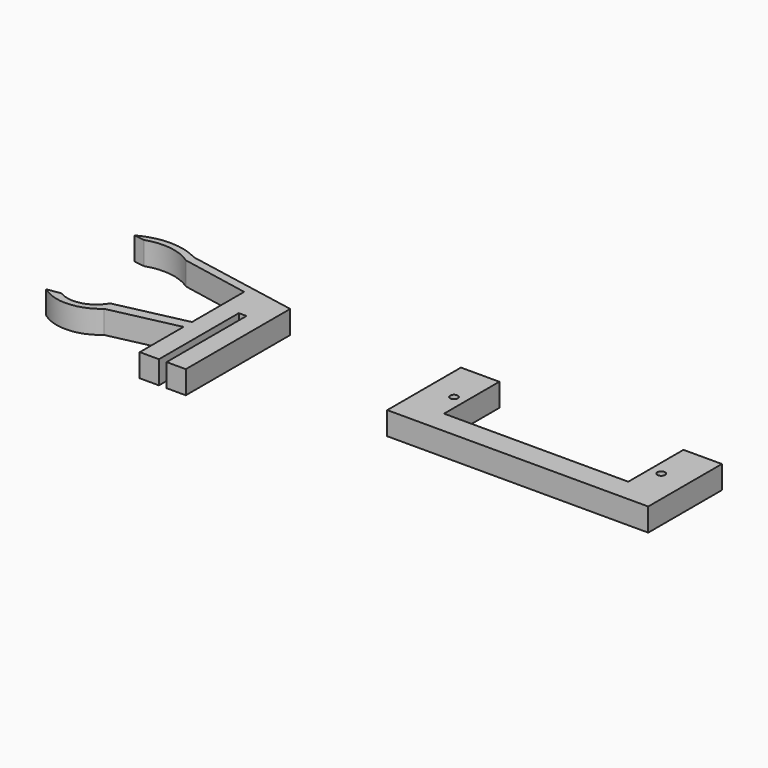
from build123d import *

# Parameters (mm, degrees)
F0_W     = 5
F0_H     = 3
F0_H_2   = 9
F0_R     = 0.5
F0_W_2   = 24
F1_DEPTH = 3
F2_W     = 0.7
F2_H     = 3
F3_DEPTH = 3


with BuildPart() as f1:
    # F0 (on Top) → F1 (new body)
    with BuildSketch(Plane.XY):
        with Locations((17.012177, -21.674683)):
            Rectangle(F0_W, F0_H)
        with Locations((17.012177, -15.674683)):
            Rectangle(F0_W, F0_H_2)
        with Locations((18.012177, -16.674683)):
            Circle(F0_R, mode=Mode.SUBTRACT)
        with Locations((46.012177, -21.674683)):
            Rectangle(F0_W, F0_H)
        Polygon((43.512177, -11.184), (43.512177, -20.174683), (48.512177, -20.174683), (48.512177, -11.174683), align=None)
        with Locations((45.012177, -16.681215)):
            Circle(F0_R, mode=Mode.SUBTRACT)
        with Locations((31.512177, -21.674683)):
            Rectangle(F0_W_2, F0_H)
    extrude(amount=F1_DEPTH)


with BuildPart() as f3:
    # F2 (on Top) → F3 (new body)
    with BuildSketch(Plane.XY):
        with Locations((-12.772288, -26.402034)):
            Rectangle(F2_W, F2_H)
        with Locations((-7.472288, -26.402034)):
            Rectangle(F2_W, F2_H)
        with BuildLine():
            Line((-21.912938, -23.742106), (-22.194326, -22.423949))
            ThreePointArc((-22.194326, -22.423949), (-24.528408, -24.214616), (-27.439466, -23.790156))
            Line((-27.439466, -23.790156), (-29.217608, -24.065923))
            ThreePointArc((-29.217608, -24.065923), (-25.508239, -25.190581), (-21.912938, -23.742106))
        make_face()
        with BuildLine():
            ThreePointArc((-28.20695, -9.363727), (-25.042249, -9.055505), (-22.077888, -10.20568))
            Line((-22.077888, -10.20568), (-21.866333, -9.173095))
            ThreePointArc((-21.866333, -9.173095), (-25.739782, -8.188404), (-29.61323, -9.173095))
            Line((-29.61323, -9.173095), (-28.20695, -9.363727))
        make_face()
        Polygon((-22.077888, -10.20568), (-13.122288, -11.932285), (-7.122288, -11.932285), (-21.866333, -9.173095), align=None)
        Polygon((-13.122288, -21.812218), (-13.122288, -20.432285), (-22.194326, -22.423949), (-21.912938, -23.742106), align=None)
        Polygon((-7.122288, -11.932285), (-13.122288, -11.932285), (-13.122288, -20.432285), (-13.122288, -21.812218), (-13.122288, -24.902034), (-12.422288, -24.902034), (-12.422288, -27.902034), (-13.122288, -27.902034), (-13.122288, -28.932285), (-10.622288, -28.932285), (-10.622288, -15.932285), (-9.622288, -15.932285), (-9.622288, -28.932285), (-7.122288, -28.932285), (-7.122288, -27.902034), (-7.822288, -27.902034), (-7.822288, -24.902034), (-7.122288, -24.902034), align=None)
    extrude(amount=F3_DEPTH)


solid = Compound([f1.part, f3.part])
